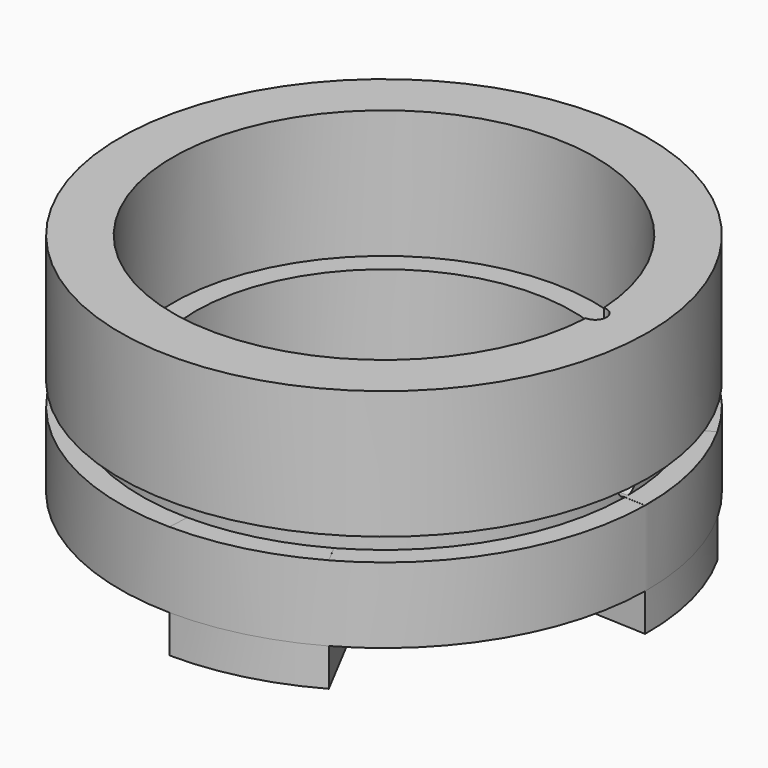
from build123d import *

# Parameters (mm, degrees)
SKETCH005_R          = 35
SKETCH005_R_2        = 25
PAD_DEPTH            = 10
SKETCH006_R          = 32.2
SKETCH006_R_2        = 25
PAD001_DEPTH         = 3
SKETCH_R             = 35
SKETCH_R_2           = 28
PAD002_DEPTH         = 17
SKETCH004_R          = 1.5
POCKET_DEPTH         = 20
SKETCH003_R          = 1.5
POCKET001_DEPTH      = 8.5
POCKET001_DEPTH_BACK = 100
PAD003_DEPTH         = 0.01
PAD003_DEPTH_BACK    = 15
POLARPATTERN_COUNT   = 4


with BuildPart() as part:
    # Sketch005 → Pad (new body)
    with BuildSketch(Plane.XY.offset(-1.5)):
        Circle(SKETCH005_R)
        Circle(SKETCH005_R_2, mode=Mode.SUBTRACT)
    extrude(amount=-PAD_DEPTH)

    # Sketch006 → Pad001 (join)
    with BuildSketch(Plane.XY.offset(-1.5)):
        Circle(SKETCH006_R)
        Circle(SKETCH006_R_2, mode=Mode.SUBTRACT)
    extrude(amount=PAD001_DEPTH)

    # Sketch → Pad002 (join)
    with BuildSketch(Plane.XY.offset(1.5)):
        Circle(SKETCH_R)
        Circle(SKETCH_R_2, mode=Mode.SUBTRACT)
    extrude(amount=PAD002_DEPTH)

    # Sketch004 → Pocket (cut)
    with BuildSketch(Plane(origin=(28, 0, 0), x_dir=(1, 0, 0), z_dir=(0, 0, 1))):
        Circle(SKETCH004_R)
    extrude(amount=POCKET_DEPTH, mode=Mode.SUBTRACT)

    # Sketch003 → Pocket001 (cut, two sides)
    with BuildSketch(Plane(origin=(35, 0, 0), x_dir=(0, 0.939693, 0.34202), z_dir=(1, 0, 0))) as pocket001_sk:
        Circle(SKETCH003_R)
    extrude(amount=-POCKET001_DEPTH, mode=Mode.SUBTRACT)
    extrude(pocket001_sk.sketch, amount=POCKET001_DEPTH_BACK, mode=Mode.SUBTRACT)

    # Sketch002 → Pad003 (join, two sides)
    with BuildSketch(Plane.XY.offset(-1.5)) as pad003_sk:
        with BuildLine():
            ThreePointArc((-34.997021, 0.456663), (-33.922719, -8.616793), (-30.53664, -17.103029))
            Line((-30.53664, -17.103029), (-21.762611, -12.504957))
            ThreePointArc((-25.093421, 0), (-24.251171, -6.471733), (-21.762611, -12.504957))
            Line((-34.997021, 0.456663), (-25.093421, 0))
        make_face()
    pad003 = extrude(amount=PAD003_DEPTH) + extrude(pad003_sk.sketch, amount=-PAD003_DEPTH_BACK)

    # PolarPattern: Pad003 ×4 about axis
    polarpattern_axis = Axis((0, 0, -1.5), (0, 0, 1))
    for i in range(1, POLARPATTERN_COUNT):
        add(pad003.rotate(polarpattern_axis, i * 360 / POLARPATTERN_COUNT))


solid = part.part
